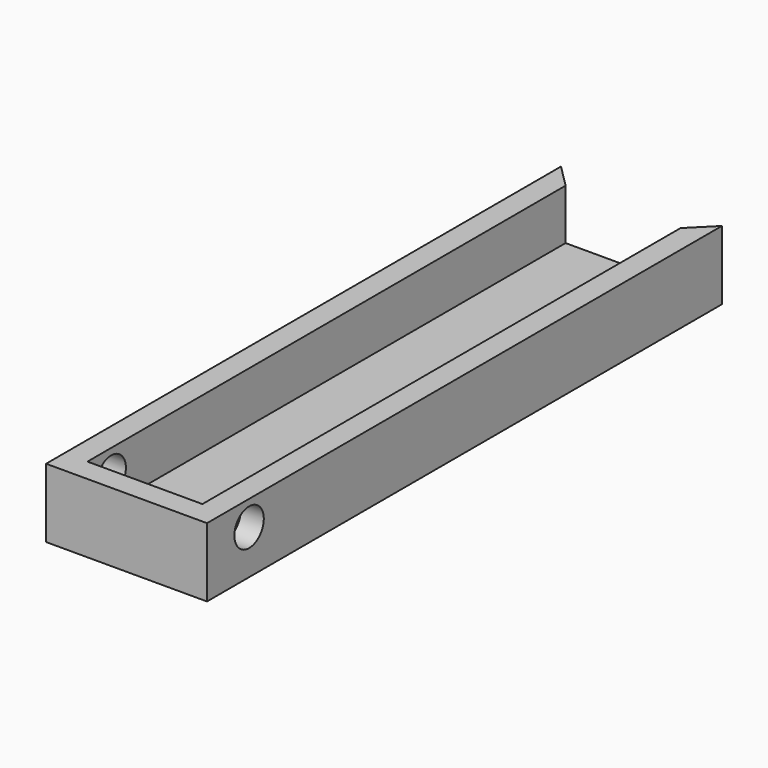
from build123d import *

# Parameters (mm, degrees)
F0_W     = 31.75
F0_H     = 165.1
F1_DEPTH = 5.08
F2_DEPTH = 19.05
F3_R     = 5.08
F4_DEPTH = 45.72


with BuildPart() as f1:
    # F0 (on Top) → F1 (new body)
    with BuildSketch(Plane.XY):
        with Locations((-29.231615, -10.24527)):
            Rectangle(F0_W, F0_H)
    extrude(amount=F1_DEPTH)

    # F0 (on Top) → F2 (join)
    with BuildSketch(Plane.XY):
        Polygon((-45.106615, -92.79527), (-45.106615, 72.30473), (-51.456615, 78.65473), (-51.456615, -99.14527), (-7.006615, -99.14527), (-7.006615, 78.65473), (-13.356615, 72.30473), (-13.356615, -92.79527), align=None)
    extrude(amount=F2_DEPTH)

    # F3 (on face) → F4 (cut)
    with BuildSketch(Plane.YZ.offset(-7.006615)):
        with Locations((-84.609412, 12.154419)):
            Circle(F3_R)
    extrude(amount=-F4_DEPTH, mode=Mode.SUBTRACT)


solid = f1.part
